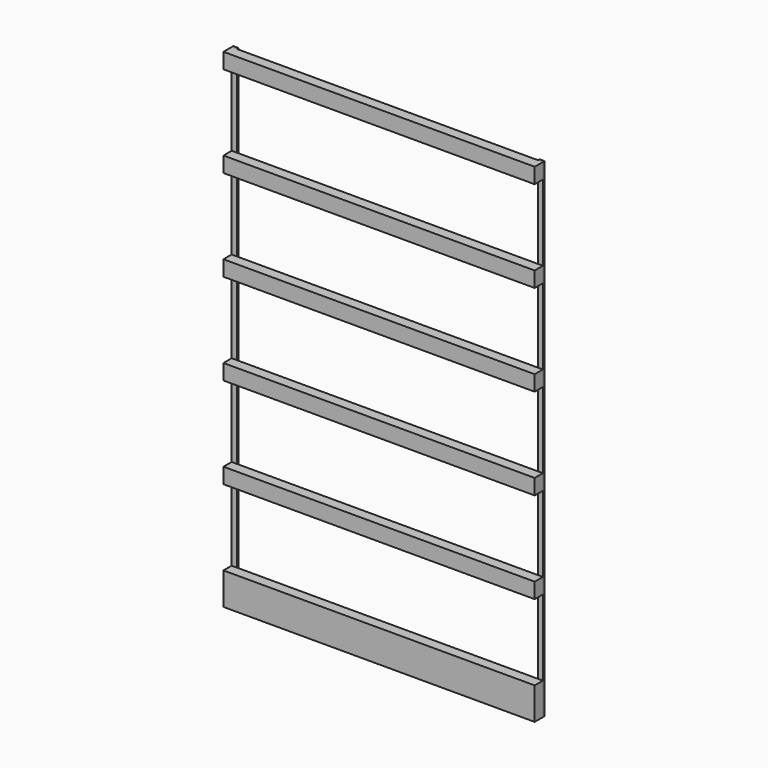
from build123d import *

# Parameters (mm, degrees)
F0_W     = 768.35
F0_H     = 1206.5
F1_DEPTH = 25.4
F2_W     = 768.35
F2_H     = 187.325
F3_DEPTH = 25.4
F4_W     = 12.7
F4_H     = 5.08
F5_DEPTH = 1206.5


with BuildPart() as f1:
    # F0 (on Front) → F1 (new body)
    with BuildSketch(Plane.XZ):
        Rectangle(F0_W, F0_H)
    extrude(amount=F1_DEPTH)

    # F2 (on face) → F3 (cut)
    with BuildSketch(Plane.XZ.offset(25.4)):
        with Locations((0, 471.4875)):
            Rectangle(F2_W, F2_H)
        with Locations((0, 246.0625)):
            Rectangle(F2_W, F2_H)
        with Locations((0, -430.2125)):
            Rectangle(F2_W, F2_H)
        with Locations((0, 20.6375)):
            Rectangle(F2_W, F2_H)
        with Locations((0, -204.7875)):
            Rectangle(F2_W, F2_H)
    extrude(amount=-F3_DEPTH, mode=Mode.SUBTRACT)


with BuildPart() as f5:
    # F4 (on face) → F5 (new body, through all)
    with BuildSketch(Plane.XY.offset(603.25)):
        with Locations((-377.825, 2.54)):
            Rectangle(F4_W, F4_H)
        with Locations((377.825, 2.54)):
            Rectangle(F4_W, F4_H)
    extrude(amount=-F5_DEPTH)


solid = Compound([f1.part, f5.part])
